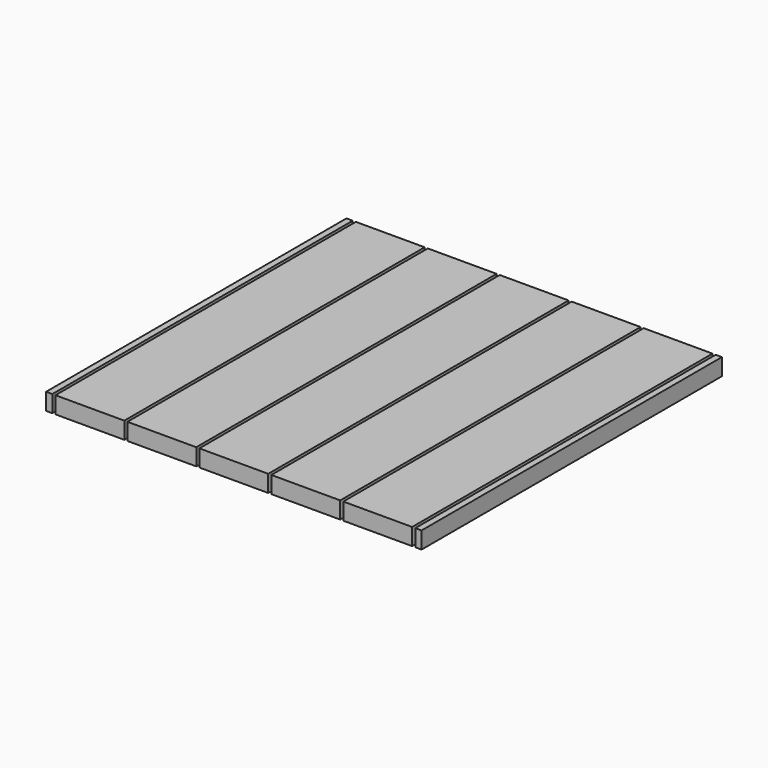
from build123d import *

# Parameters (mm, degrees)
F0_W     = 2.54
F0_H     = 152.4
F0_W_2   = 27.94
F1_DEPTH = 3.429


with BuildPart() as f1:
    # F0 (on Top) → F1 (new body, symmetric)
    with BuildSketch(Plane.XY):
        with Locations((74.93, 0)):
            Rectangle(F0_W, F0_H)
        with Locations((-74.93, 0)):
            Rectangle(F0_W, F0_H)
        Rectangle(F0_W_2, F0_H)
        with Locations((-29.21, 0)):
            Rectangle(F0_W_2, F0_H)
        with Locations((29.21, 0)):
            Rectangle(F0_W_2, F0_H)
        with Locations((-58.42, 0)):
            Rectangle(F0_W_2, F0_H)
        with Locations((58.42, 0)):
            Rectangle(F0_W_2, F0_H)
    extrude(amount=F1_DEPTH, both=True)


solid = f1.part
